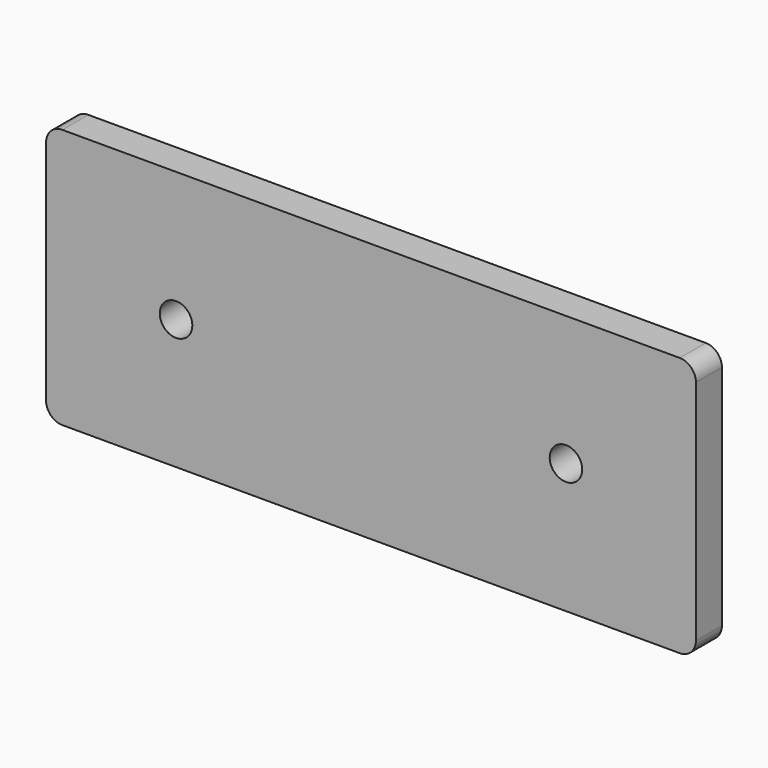
from build123d import *

# Parameters (mm, degrees)
F0_W     = 254
F0_H     = 101.6
F1_DEPTH = 12.7
F3_R     = 6.35
F4_D     = 12.7


with BuildPart() as f1:
    # F0 (on Front) → F1 (new body)
    with BuildSketch(Plane.XZ):
        with Locations((-98.205233, 17.212834)):
            Rectangle(F0_W, F0_H)
    extrude(amount=F1_DEPTH)

    # F3
    f3_edges = [f1.edges().sort_by_distance(p)[0] for p in [
        (-225.205233, -6.35, 68.012834),
        (28.794767, -6.35, 68.012834),
        (28.794767, -6.35, -33.587166),
        (-225.205233, -6.35, -33.587166),
    ]]
    fillet(f3_edges, radius=F3_R)

    # F4 (through all)
    with Locations(Plane.XZ.offset(12.7)):
        with Locations((-174.405233, 17.212834), (-22.005233, 17.212834)):
            Hole(F4_D / 2)


solid = f1.part
